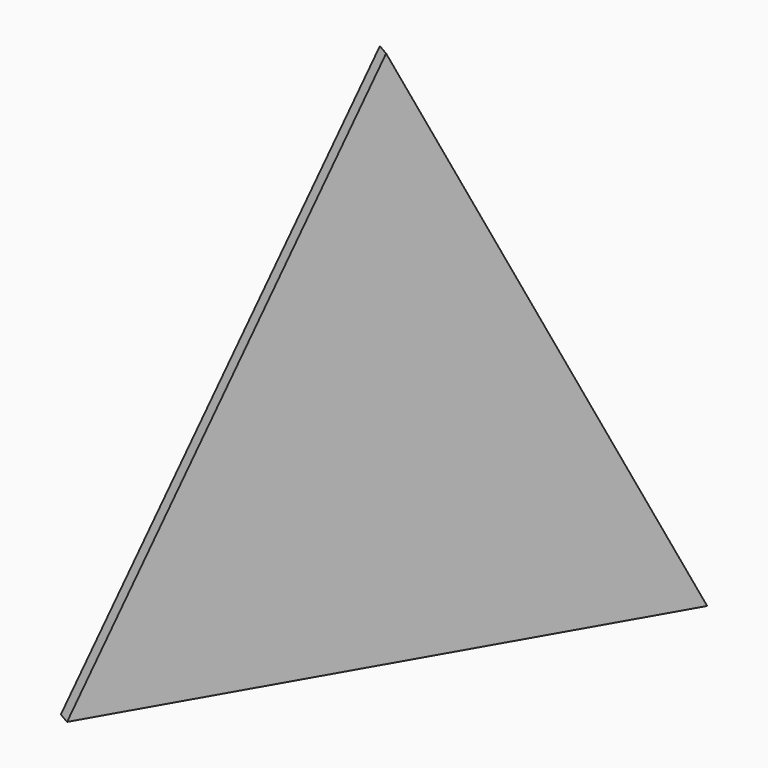
from build123d import *

# Parameters (mm, degrees)
F5_DEPTH = 0.5


with BuildPart() as f5:
    # F4 (on 3pt) → F5 (new body)
    with BuildSketch(Plane(origin=(-14.9966841803, 8.6659041431, -0.0283892035), x_dir=(-0.5003259488, -0.8658366173, -0.000947133), z_dir=(-0.8658350659, 0.5003268453, -0.0016390535))):
        Polygon((10, 0), (0, 20.0210511684), (-10, 0), align=None)
    extrude(amount=-F5_DEPTH)


solid = f5.part
